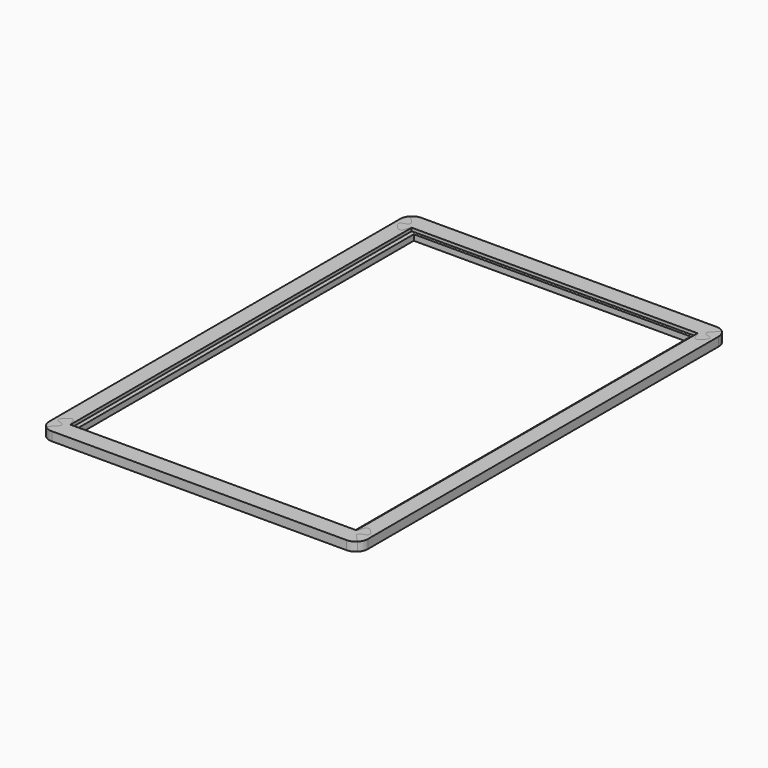
from build123d import *

# Parameters (mm, degrees)
F1_DEPTH = 19.05
F3_DEPTH = 19.05
F4_W     = 612.775
F4_H     = 914.4
F5_DEPTH = 6.731
F6_W     = 1157.532364
F6_H     = 1425.050989
F7_DEPTH = 25.4


with BuildPart() as f1:
    # F0 (on Top) → F1 (new body)
    with BuildSketch(Plane.XY):
        with BuildLine():
            Line((22.45064, 22.45064), (0, 0))
            Line((0, 0), (682.625, 0))
            Line((682.625, 0), (660.17436, 22.45064))
            ThreePointArc((660.17436, 22.45064), (658.530859, 28.584269), (663.020987, 33.074397))
            Line((663.020987, 33.074397), (670.103492, 34.972149))
            ThreePointArc((670.103492, 34.972149), (674.59362, 39.462277), (672.950119, 45.595906))
            Line((672.950119, 45.595906), (663.969863, 54.576162))
            ThreePointArc((663.969863, 54.576162), (657.836234, 56.219663), (653.346105, 51.729535))
            Line((653.346105, 51.729535), (651.448351, 44.647017))
            ThreePointArc((651.448351, 44.647017), (646.964064, 40.158458), (640.833156, 41.791844))
            Line((640.833156, 41.791844), (638.175, 44.45))
            Line((638.175, 44.45), (44.45, 44.45))
            Line((44.45, 44.45), (41.791844, 41.791844))
            ThreePointArc((41.791844, 41.791844), (35.660936, 40.158458), (31.176649, 44.647017))
            Line((31.176649, 44.647017), (29.278895, 51.729535))
            ThreePointArc((29.278895, 51.729535), (24.788766, 56.219663), (18.655137, 54.576162))
            Line((18.655137, 54.576162), (9.674881, 45.595906))
            ThreePointArc((9.674881, 45.595906), (8.03138, 39.462277), (12.521508, 34.972149))
            Line((12.521508, 34.972149), (19.604013, 33.074397))
            ThreePointArc((19.604013, 33.074397), (24.094141, 28.584269), (22.45064, 22.45064))
        make_face()
        with BuildLine():
            Line((29.278895, 938.870465), (31.176649, 945.952983))
            ThreePointArc((31.176649, 945.952983), (35.660936, 950.441542), (41.791844, 948.808156))
            Line((41.791844, 948.808156), (44.45, 946.15))
            Line((44.45, 946.15), (638.175, 946.15))
            Line((638.175, 946.15), (640.833156, 948.808156))
            ThreePointArc((640.833156, 948.808156), (646.964064, 950.441542), (651.448351, 945.952983))
            Line((651.448351, 945.952983), (653.346105, 938.870465))
            ThreePointArc((653.346105, 938.870465), (657.836234, 934.380337), (663.969863, 936.023838))
            Line((663.969863, 936.023838), (672.950119, 945.004094))
            ThreePointArc((672.950119, 945.004094), (674.59362, 951.137723), (670.103492, 955.627851))
            Line((670.103492, 955.627851), (663.020987, 957.525603))
            ThreePointArc((663.020987, 957.525603), (658.530859, 962.015731), (660.17436, 968.14936))
            Line((660.17436, 968.14936), (682.625, 990.6))
            Line((682.625, 990.6), (0, 990.6))
            Line((0, 990.6), (22.45064, 968.14936))
            ThreePointArc((22.45064, 968.14936), (24.094141, 962.015731), (19.604013, 957.525603))
            Line((19.604013, 957.525603), (12.521508, 955.627851))
            ThreePointArc((12.521508, 955.627851), (8.03138, 951.137723), (9.674881, 945.004094))
            Line((9.674881, 945.004094), (18.655137, 936.023838))
            ThreePointArc((18.655137, 936.023838), (24.788766, 934.380337), (29.278895, 938.870465))
        make_face()
    extrude(amount=F1_DEPTH)


with BuildPart() as f3:
    # F2 (on Top) → F3 (new body)
    with BuildSketch(Plane.XY):
        with BuildLine():
            Line((0, 990.6), (0, 0))
            Line((0, 0), (22.45064, 22.45064))
            ThreePointArc((22.45064, 22.45064), (24.094141, 28.584269), (19.604013, 33.074397))
            Line((19.604013, 33.074397), (12.521508, 34.972149))
            ThreePointArc((12.521508, 34.972149), (8.03138, 39.462277), (9.674881, 45.595906))
            Line((9.674881, 45.595906), (18.655137, 54.576162))
            ThreePointArc((18.655137, 54.576162), (24.788766, 56.219663), (29.278895, 51.729535))
            Line((29.278895, 51.729535), (31.176649, 44.647017))
            ThreePointArc((31.176649, 44.647017), (35.660936, 40.158458), (41.791844, 41.791844))
            Line((41.791844, 41.791844), (44.45, 44.45))
            Line((44.45, 44.45), (44.45, 946.15))
            Line((44.45, 946.15), (41.791844, 948.808156))
            ThreePointArc((41.791844, 948.808156), (35.660936, 950.441542), (31.176649, 945.952983))
            Line((31.176649, 945.952983), (29.278895, 938.870465))
            ThreePointArc((29.278895, 938.870465), (24.788766, 934.380337), (18.655137, 936.023838))
            Line((18.655137, 936.023838), (9.674881, 945.004094))
            ThreePointArc((9.674881, 945.004094), (8.03138, 951.137723), (12.521508, 955.627851))
            Line((12.521508, 955.627851), (19.604013, 957.525603))
            ThreePointArc((19.604013, 957.525603), (24.094141, 962.015731), (22.45064, 968.14936))
            Line((22.45064, 968.14936), (0, 990.6))
        make_face()
        with BuildLine():
            Line((653.346105, 938.870465), (651.448351, 945.952983))
            ThreePointArc((651.448351, 945.952983), (646.964064, 950.441542), (640.833156, 948.808156))
            Line((640.833156, 948.808156), (638.175, 946.15))
            Line((638.175, 946.15), (638.175, 44.45))
            Line((638.175, 44.45), (640.833156, 41.791844))
            ThreePointArc((640.833156, 41.791844), (646.964064, 40.158458), (651.448351, 44.647017))
            Line((651.448351, 44.647017), (653.346105, 51.729535))
            ThreePointArc((653.346105, 51.729535), (657.836234, 56.219663), (663.969863, 54.576162))
            Line((663.969863, 54.576162), (672.950119, 45.595906))
            ThreePointArc((672.950119, 45.595906), (674.59362, 39.462277), (670.103492, 34.972149))
            Line((670.103492, 34.972149), (663.020987, 33.074397))
            ThreePointArc((663.020987, 33.074397), (658.530859, 28.584269), (660.17436, 22.45064))
            Line((660.17436, 22.45064), (682.625, 0))
            Line((682.625, 0), (682.625, 990.6))
            Line((682.625, 990.6), (660.17436, 968.14936))
            ThreePointArc((660.17436, 968.14936), (658.530859, 962.015731), (663.020987, 957.525603))
            Line((663.020987, 957.525603), (670.103492, 955.627851))
            ThreePointArc((670.103492, 955.627851), (674.59362, 951.137723), (672.950119, 945.004094))
            Line((672.950119, 945.004094), (663.969863, 936.023838))
            ThreePointArc((663.969863, 936.023838), (657.836234, 934.380337), (653.346105, 938.870465))
        make_face()
    extrude(amount=F3_DEPTH)


with BuildPart() as f5_tool:
    # F4 (on face) → F5 (new body)
    with BuildSketch(Plane.XY.offset(19.05)):
        with Locations((341.3125, 495.3)):
            Rectangle(F4_W, F4_H)
    extrude(amount=-F5_DEPTH)


with BuildPart() as f1_1:
    add(f1.part)

    # F5: cut by f5_tool
    add(f5_tool.part, mode=Mode.SUBTRACT)


with BuildPart() as f3_1:
    add(f3.part)

    # F5: cut by f5_tool
    add(f5_tool.part, mode=Mode.SUBTRACT)


with BuildPart() as f7_tool:
    # F6 (on face) → F7 (new body)
    with BuildSketch(Plane.XY.offset(19.05)):
        with Locations((321.719572, 495.283834)):
            Rectangle(F6_W, F6_H)
        with BuildLine():
            ThreePointArc((25.4, 0), (7.439488, 7.439488), (0, 25.4))
            Line((0, 25.4), (0, 965.2))
            ThreePointArc((0, 965.2), (7.439488, 983.160512), (25.4, 990.6))
            Line((25.4, 990.6), (657.225, 990.6))
            ThreePointArc((657.225, 990.6), (675.185512, 983.160512), (682.625, 965.2))
            Line((682.625, 965.2), (682.625, 25.4))
            ThreePointArc((682.625, 25.4), (675.185512, 7.439488), (657.225, 0))
            Line((657.225, 0), (25.4, 0))
        make_face(mode=Mode.SUBTRACT)
    extrude(amount=-F7_DEPTH)


with BuildPart() as f1_2:
    add(f1_1.part)

    # F7: cut by f7_tool
    add(f7_tool.part, mode=Mode.SUBTRACT)


with BuildPart() as f3_2:
    add(f3_1.part)

    # F7: cut by f7_tool
    add(f7_tool.part, mode=Mode.SUBTRACT)


solid = Compound([f1_2.part, f3_2.part])
